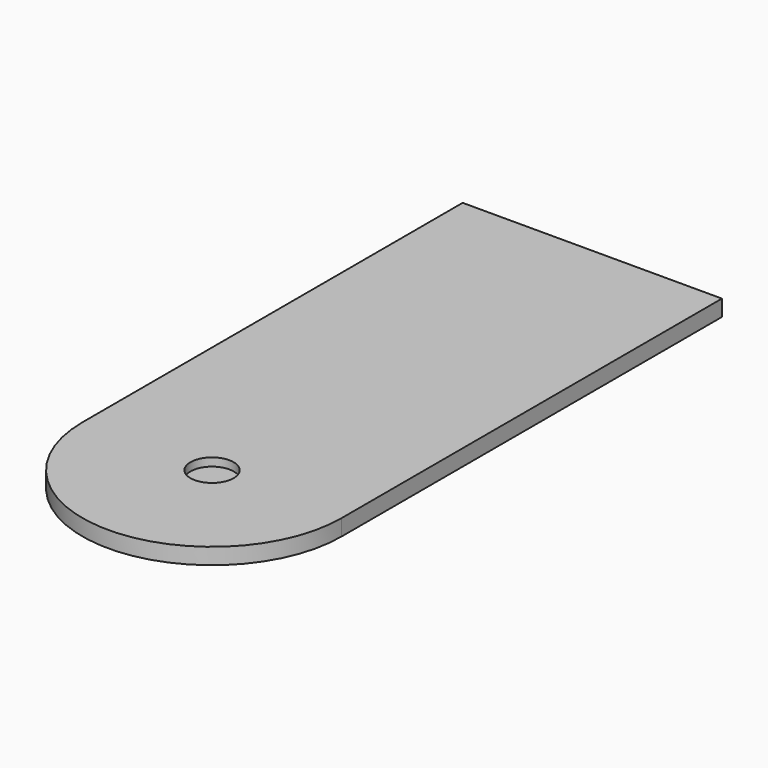
from build123d import *

# Parameters (mm, degrees)
F1_DEPTH = 19.05
F2_R     = 25.4
F3_DEPTH = 9.525


with BuildPart() as f1:
    # F0 (on Top) → F1 (new body)
    with BuildSketch(Plane.XY):
        with BuildLine():
            Line((0, 711.2), (0, 152.4))
            ThreePointArc((0, 152.4), (152.4, 0), (304.8, 152.4))
            Line((304.8, 152.4), (304.8, 711.2))
            Line((304.8, 711.2), (0, 711.2))
        make_face()
    extrude(amount=F1_DEPTH)

    # F2 (on face) → F3 (cut)
    with BuildSketch(Plane.XY.offset(19.05)):
        with Locations((152.4, 152.4)):
            Circle(F2_R)
    extrude(amount=-F3_DEPTH, mode=Mode.SUBTRACT)


solid = f1.part
